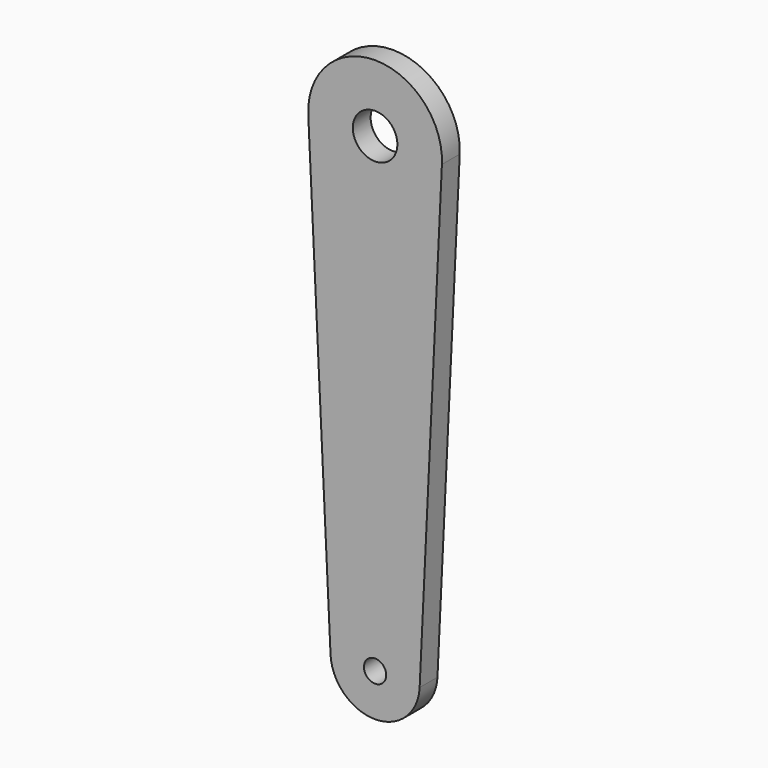
from build123d import *

# Parameters (mm, degrees)
F1_DEPTH = 1
F2_R     = 1
F2_R_2   = 0.5
F3_DEPTH = 1.001


with BuildPart() as f1:
    # F0 (on Front) → F1 (new body)
    with BuildSketch(Plane.XZ):
        Polygon((-3, 21), (-2, 0), (2, 0), (3, 21), align=None)
        with BuildLine():
            ThreePointArc((3, 21), (0, 24.146257), (-3, 21))
            Line((-3, 21), (3, 21))
        make_face()
        with BuildLine():
            Line((2, 0), (-2, 0))
            ThreePointArc((-2, 0), (0, -1.907028), (2, 0))
        make_face()
    extrude(amount=F1_DEPTH)

    # F2 (on face) → F3 (cut, through all)
    with BuildSketch(Plane.XZ.offset(1)):
        with Locations((0, 21.142857)):
            Circle(F2_R)
        Circle(F2_R_2)
    extrude(amount=-F3_DEPTH, mode=Mode.SUBTRACT)


solid = f1.part
